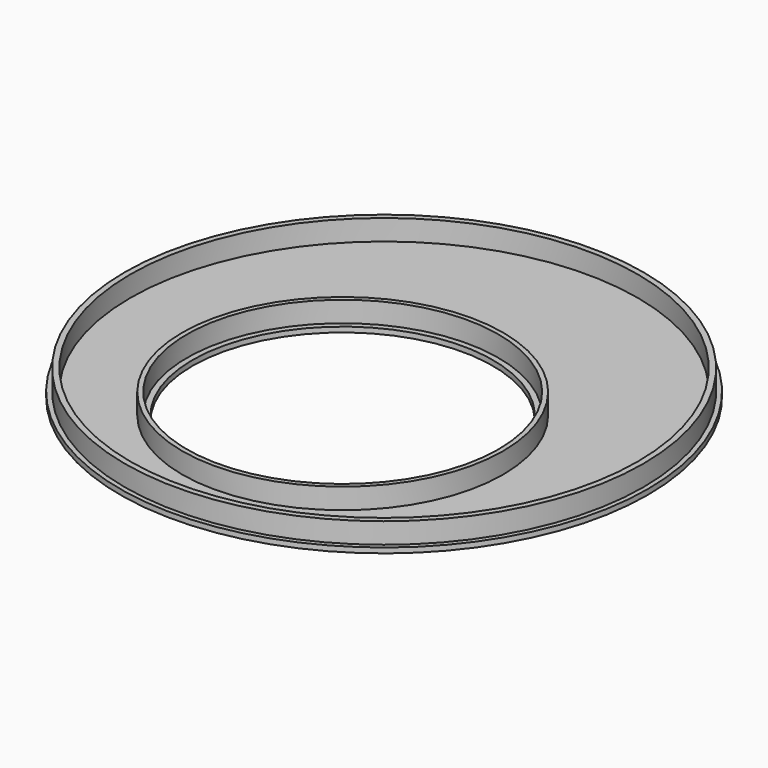
from build123d import *

# Parameters (mm, degrees)
F0_R     = 51
F0_R_2   = 50.1
F1_DEPTH = 1
F0_R_3   = 30.1
F0_R_4   = 29
F0_R_5   = 49
F0_R_6   = 31
F2_DEPTH = 5


with BuildPart() as f1:
    # F0 (on Top) → F1 (new body)
    with BuildSketch(Plane.XY):
        Circle(F0_R)
        Circle(F0_R_2, mode=Mode.SUBTRACT)
    extrude(amount=F1_DEPTH)



with BuildPart() as f1b:
    # F0 (on Top) → F1, piece 2 (new body)
    with BuildSketch(Plane.XY):
        with Locations((0, -10)):
            Circle(F0_R_3)
        with Locations((0, -10)):
            Circle(F0_R_4, mode=Mode.SUBTRACT)
    extrude(amount=F1_DEPTH)


with BuildPart() as f1c:
    # F0 (on Top) → F1, piece 3 (new body)
    with BuildSketch(Plane.XY):
        Circle(F0_R_5)
        with Locations((0, -10)):
            Circle(F0_R_6, mode=Mode.SUBTRACT)
    extrude(amount=F1_DEPTH)


with BuildPart() as f1_1:
    add(f1.part)

    add(f1b.part)  # F2 merges F1b

    add(f1c.part)  # F2 merges F1c
    # F0 (on Top) → F2 (join)
    with BuildSketch(Plane.XY):
        Circle(F0_R_2)
        Circle(F0_R_5, mode=Mode.SUBTRACT)
        with Locations((0, -10)):
            Circle(F0_R_6)
        with Locations((0, -10)):
            Circle(F0_R_3, mode=Mode.SUBTRACT)
    extrude(amount=F2_DEPTH)


solid = f1_1.part
